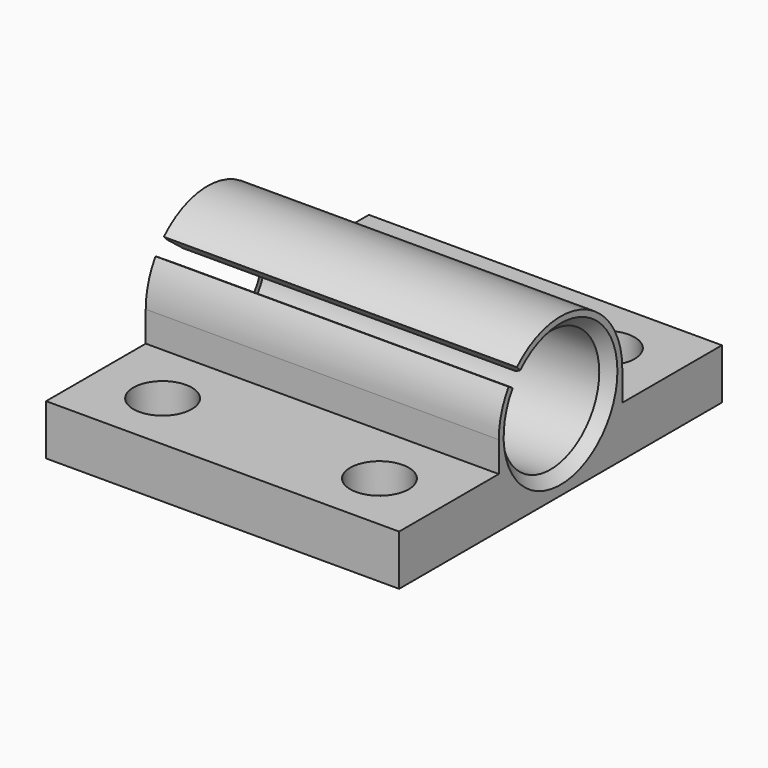
from build123d import *

# Parameters (mm, degrees)
BOX_W           = 35
BOX_H           = 40
BOX_DEPTH       = 5
PAD_DEPTH       = 35
SKETCH001_R     = 6.05
POCKET_DEPTH    = 35.001
SKETCH002_R     = 1.65
POCKET001_DEPTH = 15.651
SKETCH003_R     = 2.9
POCKET002_DEPTH = 3
CHAMFER_SIZE    = 1
CHAMFER001_SIZE = 1


with BuildPart() as part:
    # Box → Box (new body)
    with BuildSketch(Plane.XY):
        with Locations((17.5, 20)):
            Rectangle(BOX_W, BOX_H)
    extrude(amount=BOX_DEPTH)

    # Sketch → Pad (new body)
    with BuildSketch(Plane.YZ.offset(35)):
        with BuildLine():
            ThreePointArc((14.906847, 11.265317), (24.712853, 4.206385), (15.722004, 12.277996))
            Line((15.722004, 12.277996), (14.590633, 13.409367))
            ThreePointArc((27.65, 7.999994), (22.927531, 15.067677), (14.590633, 13.409367))
            Line((27.65, 7.999994), (27.65, 0))
            Line((12.35, 0), (27.65, 0))
            Line((12.35, 0), (12.35, 7.999994))
            ThreePointArc((13.559898, 12.128872), (12.658702, 10.151243), (12.35, 7.999994))
            Line((13.559898, 12.128872), (14.906847, 11.265317))
        make_face()
    extrude(amount=-PAD_DEPTH)

    # Sketch001 → Pocket (cut, through all)
    with BuildSketch(Plane.YZ.offset(35)):
        with Locations((20, 8)):
            Circle(SKETCH001_R)
    extrude(amount=-POCKET_DEPTH, mode=Mode.SUBTRACT)

    # Sketch002 → Pocket001 (cut, through all)
    with BuildSketch(Plane(origin=(0, 0, 0), x_dir=(1, 0, 0), z_dir=(0, 0, -1))):
        with Locations((6.75, -6)):
            Circle(SKETCH002_R)
        with Locations((28.25, -6)):
            Circle(SKETCH002_R)
        with Locations((6.75, -34)):
            Circle(SKETCH002_R)
        with Locations((28.25, -34)):
            Circle(SKETCH002_R)
    extrude(amount=-POCKET001_DEPTH, mode=Mode.SUBTRACT)

    # Sketch003 → Pocket002 (cut)
    with BuildSketch(Plane.XY.offset(5)):
        with Locations((6.75, 34)):
            Circle(SKETCH003_R)
        with Locations((28.25, 34)):
            Circle(SKETCH003_R)
        with Locations((6.75, 6)):
            Circle(SKETCH003_R)
        with Locations((28.25, 6)):
            Circle(SKETCH003_R)
    extrude(amount=-POCKET002_DEPTH, mode=Mode.SUBTRACT)

    # Chamfer
    chamfer_edges = [part.edges().sort_by_distance(p)[0] for p in [
        (35, 20, 1.95),
    ]]
    chamfer(chamfer_edges, length=CHAMFER_SIZE)

    # Chamfer001
    chamfer001_edges = [part.edges().sort_by_distance(p)[0] for p in [
        (0, 20, 1.95),
    ]]
    chamfer(chamfer001_edges, length=CHAMFER001_SIZE)


solid = part.part
